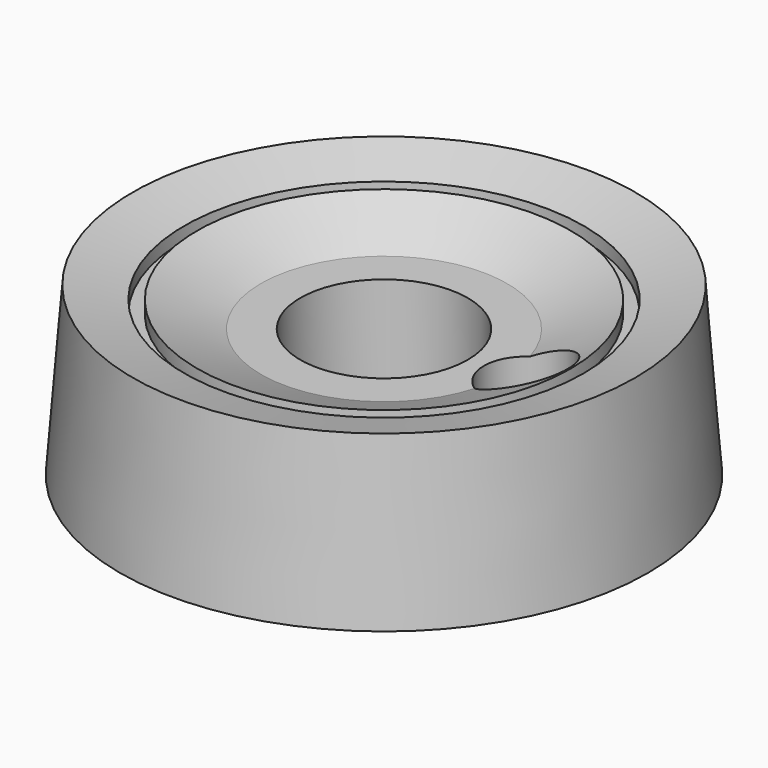
from build123d import *

# Parameters (mm, degrees)
F0_R      = 32.5501
F2_R      = 30.9626
F7_R      = 24.6126
F7_R_2    = 23.0251
F8_DEPTH  = 1.5875
F13_R     = 10.3251
F14_DEPTH = 11.0998
F17_D     = 12.7
F18_R     = 2.5527
F19_DEPTH = 25.4
F21_R     = 5.1562
F22_DEPTH = 25.4


with BuildPart() as f3:
    # F0 (on Top) → F3 section 0
    with BuildSketch(Plane.XY):
        Circle(F0_R)
    # F2 (on offset) → F3 section 1
    with BuildSketch(Plane.XY.offset(20.6502)):
        Circle(F2_R)
    loft()


with BuildPart() as f5:
    # F4 (on Front) → F5 (revolve)
    with BuildSketch(Plane.XZ):
        Polygon((30.9626, 20.6502), (0, 20.6502), (0, 19.0627), (24.595485268, 19.0627), align=None)
    revolve(axis=Axis((0, 0, 0), (0, 0, 1)))


with BuildPart() as f3_1:
    add(f3.part)

    # F6: cut F5
    add(f5.part, mode=Mode.SUBTRACT)


with BuildPart() as f8:
    # F7 (on face) → F8 (new body, symmetric)
    with BuildSketch(Plane.XY.offset(19.0627)):
        Circle(F7_R)
        Circle(F7_R_2, mode=Mode.SUBTRACT)
    extrude(amount=F8_DEPTH, both=True)


with BuildPart() as f3_2:
    add(f3_1.part)

    # F9: cut F8
    add(f8.part, mode=Mode.SUBTRACT)


with BuildPart() as f11:
    # F10 (on Front) → F11 (revolve)
    with BuildSketch(Plane.XZ):
        Polygon((23.0251, 19.0627), (0, 19.0627), (0, 15.8877), (15.1666992404, 15.8877), align=None)
    revolve(axis=Axis((0, 0, 0), (0, 0, 1)))


with BuildPart() as f3_3:
    add(f3_2.part)

    # F12: cut F11
    add(f11.part, mode=Mode.SUBTRACT)


with BuildPart() as f14:
    # F13 (on face) → F14 (new body, symmetric)
    with BuildSketch(Plane.XY.offset(15.8877)):
        Circle(F13_R)
    extrude(amount=F14_DEPTH, both=True)


with BuildPart() as f3_4:
    add(f3_3.part)

    # F15: cut F14
    add(f14.part, mode=Mode.SUBTRACT)

    # F17 (through all)
    with Locations(Plane.XY.offset(4.7879)):
        with Locations((0, 0)):
            Hole(F17_D / 2)


with BuildPart() as f19:
    # F18 (on offset) → F19 (new body, symmetric)
    with BuildSketch(Plane.XY.offset(20.6502)):
        with Locations((17.4752, 0)):
            Circle(F18_R)
    extrude(amount=F19_DEPTH, both=True)


with BuildPart() as f3_5:
    add(f3_4.part)

    # F20: cut F19
    add(f19.part, mode=Mode.SUBTRACT)


with BuildPart() as f22:
    # F21 (on Top) → F22 (new body)
    with BuildSketch(Plane.XY):
        with Locations((17.4752, 0)):
            Circle(F21_R)
    extrude(amount=F22_DEPTH)


with BuildPart() as f22_1:
    # F23: moved
    add(f22.part.moved(Location((0, 0, 4.7752))))


with BuildPart() as f3_6:
    add(f3_5.part)

    # F24: cut F22
    add(f22_1.part, mode=Mode.SUBTRACT)


solid = f3_6.part
